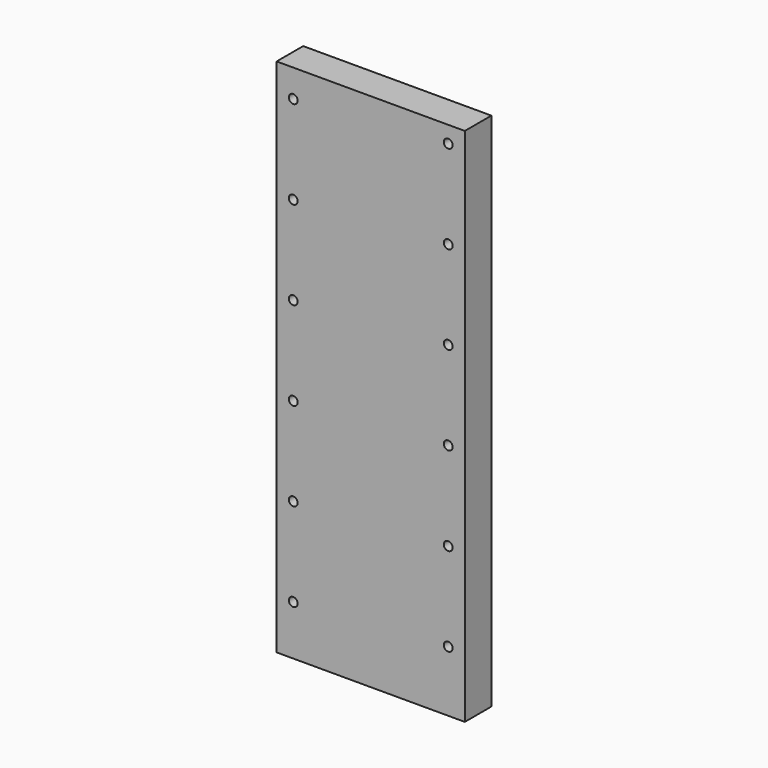
from build123d import *

# Parameters (mm, degrees)
F0_W     = 170
F0_H     = 470
F0_R     = 4
F1_DEPTH = 30


with BuildPart() as f1:
    # F0 (on Front) → F1 (new body)
    with BuildSketch(Plane.XZ):
        with Locations((85, 235)):
            Rectangle(F0_W, F0_H)
        with Locations((15, 45)):
            Circle(F0_R, mode=Mode.SUBTRACT)
        with Locations((15, 125)):
            Circle(F0_R, mode=Mode.SUBTRACT)
        with Locations((15, 205)):
            Circle(F0_R, mode=Mode.SUBTRACT)
        with Locations((155, 55)):
            Circle(F0_R, mode=Mode.SUBTRACT)
        with Locations((155, 135)):
            Circle(F0_R, mode=Mode.SUBTRACT)
        with Locations((155, 215)):
            Circle(F0_R, mode=Mode.SUBTRACT)
        with Locations((15, 285)):
            Circle(F0_R, mode=Mode.SUBTRACT)
        with Locations((15, 365)):
            Circle(F0_R, mode=Mode.SUBTRACT)
        with Locations((15, 445)):
            Circle(F0_R, mode=Mode.SUBTRACT)
        with Locations((155, 295)):
            Circle(F0_R, mode=Mode.SUBTRACT)
        with Locations((155, 375)):
            Circle(F0_R, mode=Mode.SUBTRACT)
        with Locations((155, 455)):
            Circle(F0_R, mode=Mode.SUBTRACT)
    extrude(amount=F1_DEPTH)


solid = f1.part
